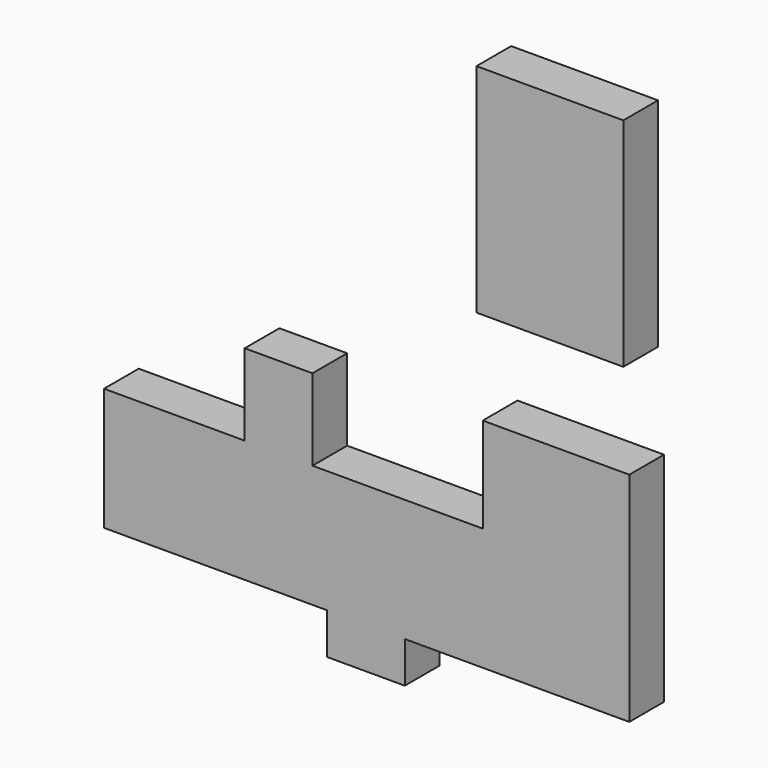
from build123d import *

# Parameters (mm, degrees)
F0_W     = 84.4691768289
F0_H     = 54.8308715224
F0_W_2   = 42.2345884144
F0_H_2   = 52.3610152304
F0_W_3   = 39.0644073486
F0_H_3   = 46.8980446458
F0_W_4   = 44.9514240026
F0_W_5   = 37.0478928089
F0_H_4   = 22.2287364304
F0_W_6   = 27.1684527397
F1_DEPTH = 25
F0_W_7   = 42.320843786
F0_H_5   = 53.4489154816
F0_H_6   = 53.5979270935


with BuildPart() as f1:
    # F0 (on Front) → F1 (new body)
    with BuildSketch(Plane.XZ):
        with Locations((-124.9489299953, 152.0193703473)):
            Rectangle(F0_W, F0_H)
        Polygon((-82.7143415809, 106.326982379), (-82.7143415809, 124.603934586), (-167.1835184097, 124.603934586), (-265.3497457504, 124.603934586), (-304.4141530991, 124.603934586), (-321.3027119637, 124.603934586), (-321.3027119637, 76.1947035789), (-284.2548191547, 76.1947035789), (-257.086366415, 76.1947035789), (-257.086366415, 106.326982379), (-212.1349424124, 106.326982379), (-167.1835184097, 106.326982379), (-124.9489299953, 106.326982379), align=None)
        with Locations((-103.8316357881, 80.1464747638)):
            Rectangle(F0_W_2, F0_H_2)
        with Locations((-284.8819494247, 148.0529569089)):
            Rectangle(F0_W_3, F0_H_3)
        with Locations((-146.0662242025, 80.1464747638)):
            Rectangle(F0_W_2, F0_H_2)
        with Locations((-189.6592304111, 80.1464747638)):
            Rectangle(F0_W_4, F0_H_2)
        Polygon((-321.3027119637, 76.1947035789), (-321.3027119637, 124.603934586), (-385.5190575123, 124.603934586), (-385.5190575123, 53.9659671485), (-321.3027119637, 53.9659671485), align=None)
        Polygon((-212.1349424124, 53.9659671485), (-212.1349424124, 106.326982379), (-257.086366415, 106.326982379), (-257.086366415, 76.1947035789), (-257.086366415, 53.9659671485), (-257.086366415, 30.2553251386), (-212.1349424124, 30.2553251386), align=None)
        with Locations((-302.7787655592, 65.0803353637)):
            Rectangle(F0_W_5, F0_H_4)
        with Locations((-270.6705927849, 65.0803353637)):
            Rectangle(F0_W_6, F0_H_4)
    extrude(amount=F1_DEPTH)


with BuildPart() as f1b:
    # F0 (on Front) → F1, piece 2 (new body)
    with BuildSketch(Plane.XZ):
        with Locations((-149.6489662677, 331.4084708691)):
            Rectangle(F0_W_7, F0_H_5)
        with Locations((-107.3281224817, 331.4084708691)):
            Rectangle(F0_W_7, F0_H_5)
        Polygon((-128.4885443747, 304.6840131283), (-170.8093881607, 304.6840131283), (-170.8093881607, 286.6353988647), (-128.4885443747, 286.6353988647), (-86.1677005887, 286.6353988647), (-86.1677005887, 304.6840131283), align=None)
        with Locations((-149.6489662677, 259.836435318)):
            Rectangle(F0_W_7, F0_H_6)
        with Locations((-107.3281224817, 259.836435318)):
            Rectangle(F0_W_7, F0_H_6)
    extrude(amount=F1_DEPTH)


solid = Compound([f1.part, f1b.part])
